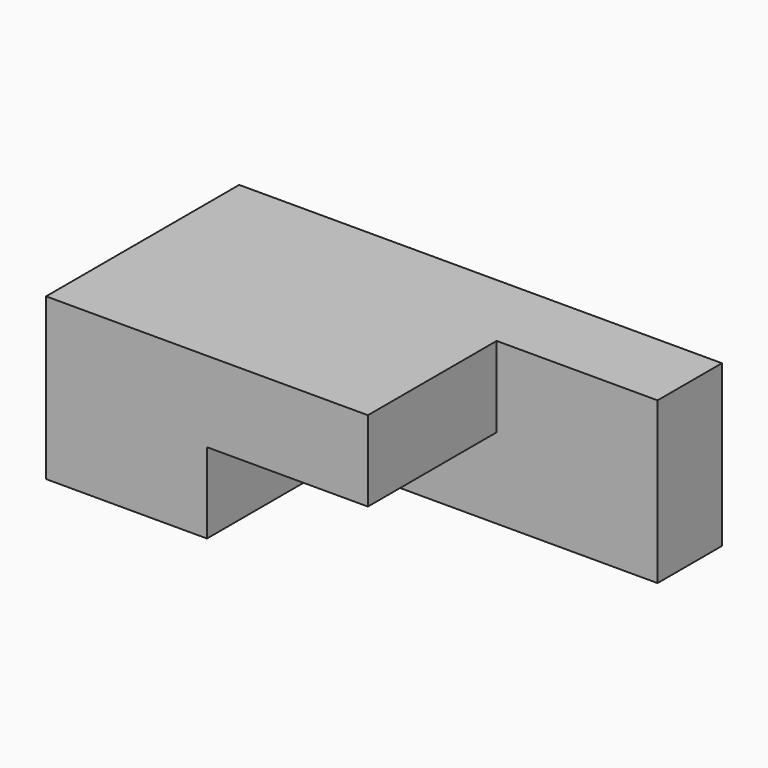
from build123d import *

# Parameters (mm, degrees)
F0_W     = 152.4
F0_H     = 50.8
F1_DEPTH = 76.2
F2_W     = 50.8
F2_H     = 25.4
F3_DEPTH = 50.8
F4_W     = 50.8
F4_H     = 25.4
F5_DEPTH = 50.8


with BuildPart() as f1:
    # F0 (on Front) → F1 (new body)
    with BuildSketch(Plane.XZ):
        with Locations((76.2, 25.4)):
            Rectangle(F0_W, F0_H)
    extrude(amount=F1_DEPTH)

    # F2 (on face) → F3 (cut)
    with BuildSketch(Plane.XZ.offset(76.2)):
        with Locations((127, 12.7)):
            Rectangle(F2_W, F2_H)
        with Locations((127, 38.1)):
            Rectangle(F2_W, F2_H)
    extrude(amount=-F3_DEPTH, mode=Mode.SUBTRACT)

    # F4 (on face) → F5 (cut)
    with BuildSketch(Plane.YZ.offset(101.6)):
        with Locations((-50.8, 12.7)):
            Rectangle(F4_W, F4_H)
    extrude(amount=-F5_DEPTH, mode=Mode.SUBTRACT)


solid = f1.part
